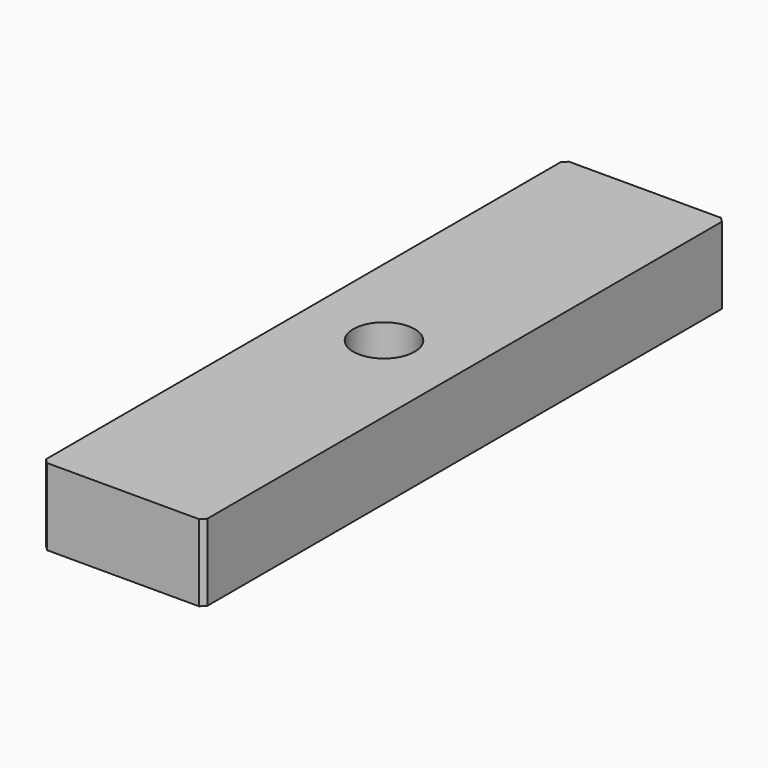
from build123d import *

# Parameters (mm, degrees)
CYLINDER001_R     = 2
CYLINDER001_DEPTH = 12
BOX012_W          = 10.5
BOX012_H          = 42.5
BOX012_DEPTH      = 5
CHAMFER005_SIZE   = 0.3


with BuildPart() as m4_tap:
    # Cylinder001 → Cylinder001 (new body)
    with BuildSketch(Plane.XY.offset(5)):
        Circle(CYLINDER001_R)
    extrude(amount=CYLINDER001_DEPTH)


with BuildPart() as cut:
    # Box012 → Box012 (new body)
    with BuildSketch(Plane(origin=(-5.25, -21.25, 0), x_dir=(1, 0, 0), z_dir=(0, 0, 1))):
        with Locations((5.25, 21.25)):
            Rectangle(BOX012_W, BOX012_H)
    extrude(amount=BOX012_DEPTH)

    # Chamfer005
    chamfer005_edges = [cut.edges().sort_by_distance(p)[0] for p in [
        (-5.25, -21.25, 2.5),
        (-5.25, 21.25, 2.5),
        (5.25, -21.25, 2.5),
        (5.25, 21.25, 2.5),
    ]]
    chamfer(chamfer005_edges, length=CHAMFER005_SIZE)


with BuildPart() as cut_1:
    # Chamfer005 placement: moved
    add(cut.part.moved(Location((0, 0, 10))))

    # Cut: cut M4-tap
    add(m4_tap.part, mode=Mode.SUBTRACT)


solid = cut_1.part
